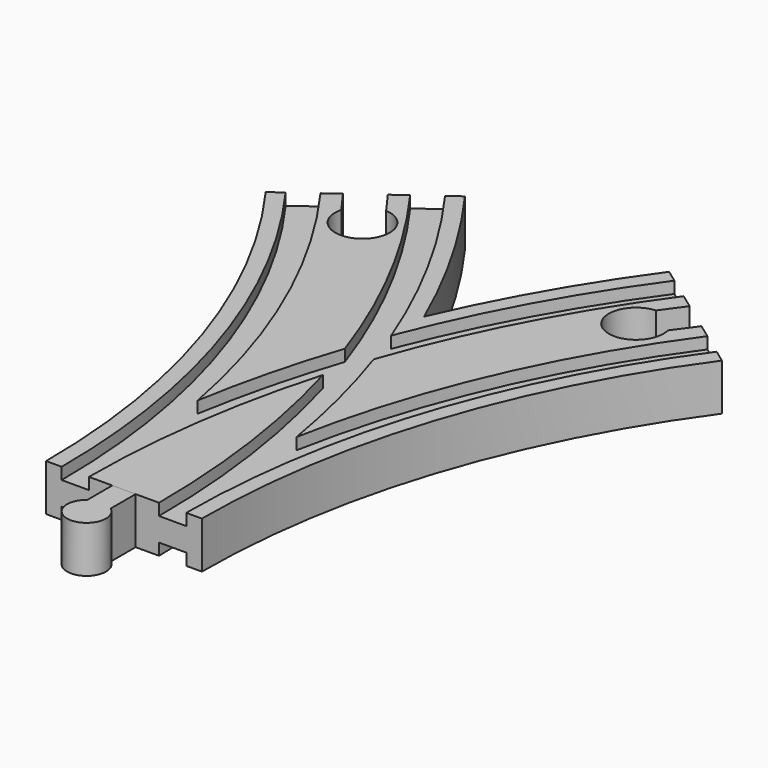
from build123d import *

# Parameters (mm, degrees)
SKETCH003_W          = 7
SKETCH003_H          = 3
SKETCH004_W          = 7
SKETCH004_H          = 3
SKETCH005_W          = 7
SKETCH005_H          = 3
SKETCH006_W          = 7
SKETCH006_H          = 3
POCKET_DEPTH         = 6.001
POCKET_DEPTH_BACK    = -6.001
POCKET001_DEPTH      = 6.001
POCKET001_DEPTH_BACK = -6.001
PAD_DEPTH            = 6


with BuildPart() as main:
    # AdditivePipe: sweep along a path in Sketch
    with BuildLine(Plane.XY) as additivepipe_path:
        ThreePointArc((0, 0), (-10.865453, 68.601773), (-42.398227, 130.488326))
    # Sketch002 → AdditivePipe (sweep)
    with BuildSketch(Plane.XZ):
        Polygon((-20, 6), (-20, -6), (-16, -6), (-16, -3), (-9, -3), (-9, -6), (9, -6), (9, -3), (16, -3), (16, -6), (20, -6), (20, 6), (16, 6), (16, 3), (9, 3), (9, 6), (-9, 6), (-9, 3), (-16, 3), (-16, 6), align=None)
    sweep(path=additivepipe_path.line)

    # AdditivePipe001: sweep along a path in Sketch001
    with BuildLine(Plane.XY) as additivepipe001_path:
        ThreePointArc((42.398227, 130.488326), (10.865453, 68.601773), (0, 0))
    # Sketch002 → AdditivePipe001 (sweep)
    with BuildSketch(Plane.XZ):
        Polygon((-20, 6), (-20, -6), (-16, -6), (-16, -3), (-9, -3), (-9, -6), (9, -6), (9, -3), (16, -3), (16, -6), (20, -6), (20, 6), (16, 6), (16, 3), (9, 3), (9, 6), (-9, 6), (-9, 3), (-16, 3), (-16, 6), align=None)
    sweep(path=additivepipe001_path.line)

    # SubtractivePipe: sweep along a path in Sketch
    with BuildLine(Plane.XY) as subtractivepipe_path:
        ThreePointArc((0, 0), (-10.865453, 68.601773), (-42.398227, 130.488326))
    # Sketch003 → SubtractivePipe (sweep, cut)
    with BuildSketch(Plane.XZ):
        with Locations((-12.5, 4.5)):
            Rectangle(SKETCH003_W, SKETCH003_H)
    sweep(path=subtractivepipe_path.line, mode=Mode.SUBTRACT)

    # SubtractivePipe001: sweep along a path in Sketch001
    with BuildLine(Plane.XY) as subtractivepipe001_path:
        ThreePointArc((42.398227, 130.488326), (10.865453, 68.601773), (0, 0))
    # Sketch003 → SubtractivePipe001 (sweep, cut)
    with BuildSketch(Plane.XZ):
        with Locations((-12.5, 4.5)):
            Rectangle(SKETCH003_W, SKETCH003_H)
    sweep(path=subtractivepipe001_path.line, mode=Mode.SUBTRACT)

    # SubtractivePipe002: sweep along a path in Sketch
    with BuildLine(Plane.XY) as subtractivepipe002_path:
        ThreePointArc((0, 0), (-10.865453, 68.601773), (-42.398227, 130.488326))
    # Sketch004 → SubtractivePipe002 (sweep, cut)
    with BuildSketch(Plane.XZ):
        with Locations((12.5, 4.5)):
            Rectangle(SKETCH004_W, SKETCH004_H)
    sweep(path=subtractivepipe002_path.line, mode=Mode.SUBTRACT)

    # SubtractivePipe003: sweep along a path in Sketch001
    with BuildLine(Plane.XY) as subtractivepipe003_path:
        ThreePointArc((42.398227, 130.488326), (10.865453, 68.601773), (0, 0))
    # Sketch004 → SubtractivePipe003 (sweep, cut)
    with BuildSketch(Plane.XZ):
        with Locations((12.5, 4.5)):
            Rectangle(SKETCH004_W, SKETCH004_H)
    sweep(path=subtractivepipe003_path.line, mode=Mode.SUBTRACT)

    # SubtractivePipe004: sweep along a path in Sketch
    with BuildLine(Plane.XY) as subtractivepipe004_path:
        ThreePointArc((0, 0), (-10.865453, 68.601773), (-42.398227, 130.488326))
    # Sketch005 → SubtractivePipe004 (sweep, cut)
    with BuildSketch(Plane.XZ):
        with Locations((-12.5, -4.5)):
            Rectangle(SKETCH005_W, SKETCH005_H)
    sweep(path=subtractivepipe004_path.line, mode=Mode.SUBTRACT)

    # SubtractivePipe005: sweep along a path in Sketch001
    with BuildLine(Plane.XY) as subtractivepipe005_path:
        ThreePointArc((42.398227, 130.488326), (10.865453, 68.601773), (0, 0))
    # Sketch005 → SubtractivePipe005 (sweep, cut)
    with BuildSketch(Plane.XZ):
        with Locations((-12.5, -4.5)):
            Rectangle(SKETCH005_W, SKETCH005_H)
    sweep(path=subtractivepipe005_path.line, mode=Mode.SUBTRACT)

    # SubtractivePipe006: sweep along a path in Sketch
    with BuildLine(Plane.XY) as subtractivepipe006_path:
        ThreePointArc((0, 0), (-10.865453, 68.601773), (-42.398227, 130.488326))
    # Sketch006 → SubtractivePipe006 (sweep, cut)
    with BuildSketch(Plane.XZ):
        with Locations((12.5, -4.5)):
            Rectangle(SKETCH006_W, SKETCH006_H)
    sweep(path=subtractivepipe006_path.line, mode=Mode.SUBTRACT)

    # SubtractivePipe007: sweep along a path in Sketch001
    with BuildLine(Plane.XY) as subtractivepipe007_path:
        ThreePointArc((42.398227, 130.488326), (10.865453, 68.601773), (0, 0))
    # Sketch006 → SubtractivePipe007 (sweep, cut)
    with BuildSketch(Plane.XZ):
        with Locations((12.5, -4.5)):
            Rectangle(SKETCH006_W, SKETCH006_H)
    sweep(path=subtractivepipe007_path.line, mode=Mode.SUBTRACT)

    # Sketch008 → Pocket (cut, two sides)
    with BuildSketch(Plane.XY) as pocket_sk:
        with BuildLine():
            Line((-46.038804, 127.843292), (-38.757651, 133.13336))
            Line((-38.757651, 133.13336), (-34.643154, 127.470241))
            ThreePointArc((-41.924307, 122.180173), (-31.017586, 114.824218), (-34.643154, 127.470241))
            Line((-46.038804, 127.843292), (-41.924307, 122.180173))
        make_face()
    extrude(amount=-POCKET_DEPTH, mode=Mode.SUBTRACT)
    extrude(pocket_sk.sketch, amount=-POCKET_DEPTH_BACK, mode=Mode.SUBTRACT)

    # Sketch009 → Pocket001 (cut, two sides)
    with BuildSketch(Plane.XY) as pocket001_sk:
        with BuildLine():
            Line((38.757651, 133.13336), (46.038804, 127.843292))
            Line((46.038804, 127.843292), (41.924307, 122.180173))
            ThreePointArc((34.643154, 127.470241), (31.017586, 114.824218), (41.924307, 122.180173))
            Line((38.757651, 133.13336), (34.643154, 127.470241))
        make_face()
    extrude(amount=-POCKET001_DEPTH, mode=Mode.SUBTRACT)
    extrude(pocket001_sk.sketch, amount=-POCKET001_DEPTH_BACK, mode=Mode.SUBTRACT)


with BuildPart() as male1:
    # Sketch010 → Pad (new body, symmetric)
    with BuildSketch(Plane.XY):
        with BuildLine():
            Line((-3, 0), (3, 0))
            Line((3, 0), (3, -8))
            ThreePointArc((-3, -8), (0, -17), (3, -8))
            Line((-3, 0), (-3, -8))
        make_face()
    extrude(amount=PAD_DEPTH, both=True)


solid = Compound([main.part, male1.part])
